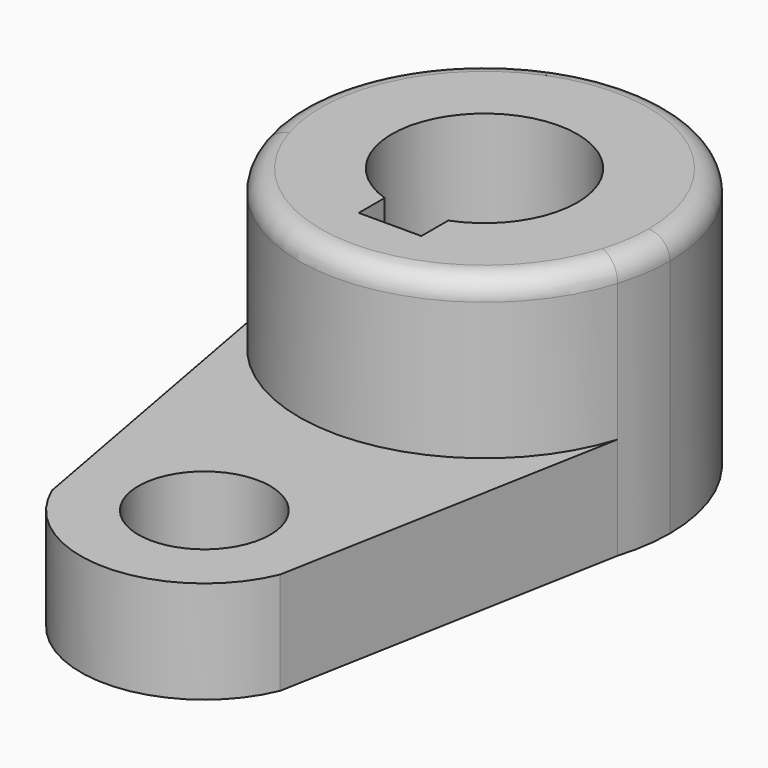
from build123d import *

# Parameters (mm, degrees)
F1_DEPTH = 40.2336
F0_R     = 10.16
F2_DEPTH = 15.7734
F3_R     = 3.302


with BuildPart() as f1:
    # F0 (on Top) → F1 (new body)
    with BuildSketch(Plane.XY):
        with BuildLine():
            ThreePointArc((27.2897645342, 23.8900197129), (28.2518640674, 28.0782870201), (28.575, 32.3634709971))
            ThreePointArc((28.575, 32.3634709971), (-4.2851839771, 60.6153350645), (-27.2897645342, 23.8900197129))
            ThreePointArc((-27.2897645342, 23.8900197129), (0, 3.7884709971), (27.2897645342, 23.8900197129))
        make_face()
        with BuildLine():
            ThreePointArc((-4.5638517477, 18.8244934333), (-8.3344653219, 43.9681831455), (14.2875, 32.3634709971))
            ThreePointArc((14.2875, 32.3634709971), (11.7649813941, 24.2568151486), (5.0881482523, 19.0126881133))
            Line((5.0881482523, 19.0126881133), (5.0881482523, 13.8341709971))
            Line((5.0881482523, 13.8341709971), (-4.5638517477, 13.8341709971))
            Line((-4.5638517477, 13.8341709971), (-4.5638517477, 18.8244934333))
        make_face(mode=Mode.SUBTRACT)
    extrude(amount=F1_DEPTH)

    # F0 (on Top) → F2 (join)
    with BuildSketch(Plane.XY):
        with BuildLine():
            ThreePointArc((27.2897645342, 23.8900197129), (0, 3.7884709971), (-27.2897645342, 23.8900197129))
            Line((-27.2897645342, 23.8900197129), (-19.0398767625, -20.990567758))
            ThreePointArc((-19.0398767625, -20.990567758), (0, -2.5615290029), (19.0398767625, -20.990567758))
            Line((19.0398767625, -20.990567758), (27.2897645342, 23.8900197129))
        make_face()
        with BuildLine():
            ThreePointArc((19.0398767625, -20.990567758), (0, -2.5615290029), (-19.0398767625, -20.990567758))
            Line((-19.0398767625, -20.990567758), (-17.5744174222, -28.9628793733))
            ThreePointArc((-17.5744174222, -28.9628793733), (0, -40.6615290029), (17.5744174222, -28.9628793733))
            Line((17.5744174222, -28.9628793733), (19.0398767625, -20.990567758))
        make_face()
        with Locations((0, -21.6115290029)):
            Circle(F0_R, mode=Mode.SUBTRACT)
    extrude(amount=F2_DEPTH)

    # F3
    f3_edges = [f1.edges().sort_by_distance(p)[0] for p in [
        (27.289765, 40.836922, 40.2336),
    ]]
    fillet(f3_edges, radius=F3_R)


solid = f1.part
